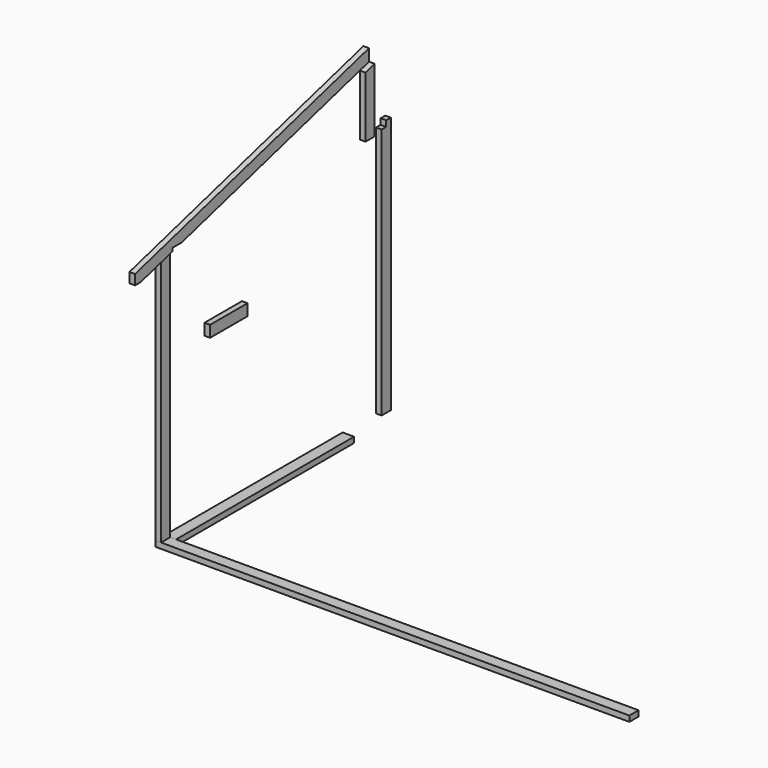
from build123d import *

# Parameters (mm, degrees)
F0_W      = 98
F0_H      = 2200
F1_DEPTH  = 48
F2_W      = 98
F2_H      = 48
F3_DEPTH  = 4048
F5_DEPTH  = 48
F7_W      = 98
F7_H      = 48
F8_DEPTH  = 1900
F16_DEPTH = 390
F17_W     = 48
F17_H     = 98
F18_DEPTH = 400
F20_DEPTH = 48
F22_DEPTH = 48


with BuildPart() as f1:
    # F0 (on Right) → F1 (new body)
    with BuildSketch(Plane.YZ):
        with Locations((-323.3390996456, 820.5617725849)):
            Rectangle(F0_W, F0_H)
    extrude(amount=F1_DEPTH)

    # F15 (on face) → F16 (cut)
    with BuildSketch(Plane.YZ.offset(146)):
        Polygon((-370.9112414771, 2861.8673047357), (-370.9112414771, 2043.7578193045), (1725.6609003544, 2616.8942845753), (1725.6609003544, 2861.8673047357), align=None)
    extrude(amount=-F16_DEPTH, mode=Mode.SUBTRACT)


with BuildPart() as f3:
    # F2 (on Right) → F3 (new body)
    with BuildSketch(Plane.YZ):
        with Locations((-957.1289768219, 288.2143368721)):
            Rectangle(F2_W, F2_H)
    extrude(amount=F3_DEPTH)


with BuildPart() as f5:
    # F4 (on Right) → F5 (new body)
    with BuildSketch(Plane.YZ):
        Polygon((-587.9660248756, 1732.3569059372), (-528.6779999733, 1732.3569059372), (-187.9660248756, 1825.4967761027), (-187.9660248756, 1852.2868743187), (-89.9660248756, 1852.2868743187), (1910.0339751244, 2399.0235726039), (1910.0339751244, 2500.6193863091), (-587.9660248756, 1817.7452501509), align=None)
    extrude(amount=F5_DEPTH)


with BuildPart() as f3_1:
    # F6: moved
    add(f3.part.moved(Location((0, 640, -610))))


with BuildPart() as f8:
    # F7 (on Front) → F8 (new body)
    with BuildSketch(Plane.XZ):
        with Locations((2963.0957374573, -277.1502921581)):
            Rectangle(F7_W, F7_H)
    extrude(amount=-F8_DEPTH)


with BuildPart() as f3_2:
    # F9: moved
    add(f3_1.part.moved(Location((0, 0, -640))))


with BuildPart() as f3_3:
    # F10: moved
    add(f3_2.part.moved(Location((0, -6.2101228237, 658.3474357128))))


with BuildPart() as f5_1:
    # F11: moved
    add(f5.part.moved(Location((0, -184.37307477, 68.2748982662))))


with BuildPart() as f8_1:
    # F12: moved
    add(f8.part.moved(Location((-2914.0957374573, -274.3390996456, -26.287935257))))


with BuildPart() as f5_2:
    # F13: moved
    add(f5_1.part.moved(Location((0, 0, 48))))


with BuildPart() as f5_3:
    # F14: moved
    add(f5_2.part.moved(Location((98, 0, 0))))


with BuildPart() as f18:
    # F17 (on Front) → F18 (new body)
    with BuildSketch(Plane.XZ):
        with Locations((465.09714818, 1463.3362045288)):
            Rectangle(F17_W, F17_H)
    extrude(amount=F18_DEPTH)


with BuildPart() as f20:
    # F19 (on face) → F20 (new body)
    with BuildSketch(Plane.YZ.offset(146)):
        Polygon((1725.6609003544, 1968.5617725849), (1725.6609003544, 2515.2984708701), (1627.6609003544, 2488.5083726541), (1627.6609003544, 1968.5617725849), align=None)
    extrude(amount=F20_DEPTH)


with BuildPart() as f22:
    # F21 (on face) → F22 (new body)
    with BuildSketch(Plane(origin=(0, 0, 0), x_dir=(0, -1, 0), z_dir=(-1, 0, 0))):
        Polygon((-2140.8398151398, -321.7759132385), (-2042.8398151398, -321.7759132385), (-2042.8398151398, 1828.2240867615), (-2091.8398151398, 1828.2240867615), (-2091.8398151398, 1878.2240867615), (-2140.8398151398, 1878.2240867615), align=None)
    extrude(amount=F22_DEPTH)


solid = Compound([f1.part, f3_3.part, f8_1.part, f5_3.part, f18.part, f20.part, f22.part])
